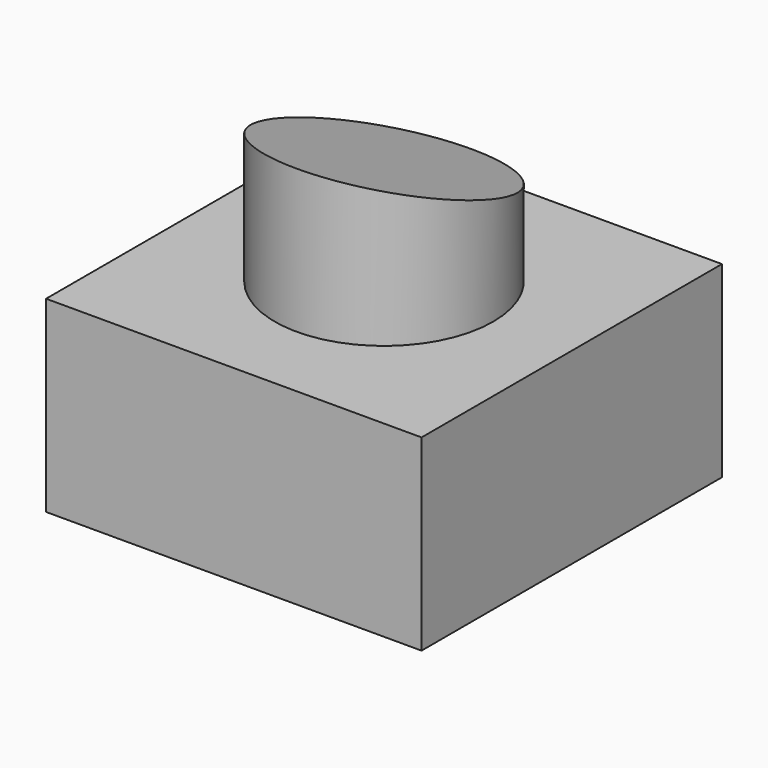
from build123d import *

# Parameters (mm, degrees)
F0_W     = 50.8
F0_H     = 50.8
F1_DEPTH = 25.4
F2_R     = 14.772964705
F3_DEPTH = 25.4
F5_DEPTH = 25.4


with BuildPart() as f1:
    # F0 (on Top) → F1 (new body)
    with BuildSketch(Plane.XY):
        Rectangle(F0_W, F0_H)
    extrude(amount=-F1_DEPTH)

    # F2 (on face) → F3 (join)
    with BuildSketch(Plane.XY):
        Circle(F2_R)
    extrude(amount=F3_DEPTH)

    # F4 (on Right) → F5 (cut, symmetric)
    with BuildSketch(Plane.YZ):
        Polygon((-22.9588039219, 40.4620580375), (-20.6856597215, 21.3676057756), (29.3236263096, 5.0009298138), (29.3236263096, 40.4620580375), align=None)
    extrude(amount=F5_DEPTH, both=True, mode=Mode.SUBTRACT)


solid = f1.part
